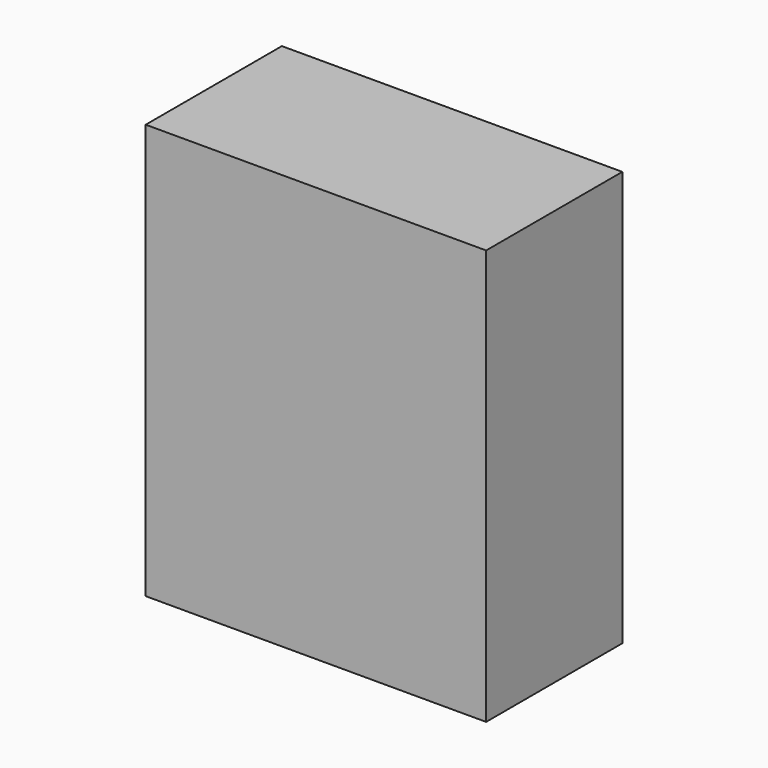
from build123d import *

# Parameters (mm, degrees)
BOX_W     = 1000
BOX_H     = 500
BOX_DEPTH = 1219.2


with BuildPart() as part:
    # Box → Box (new body)
    with BuildSketch(Plane.XY):
        with Locations((500, 250)):
            Rectangle(BOX_W, BOX_H)
    extrude(amount=BOX_DEPTH)


solid = part.part
